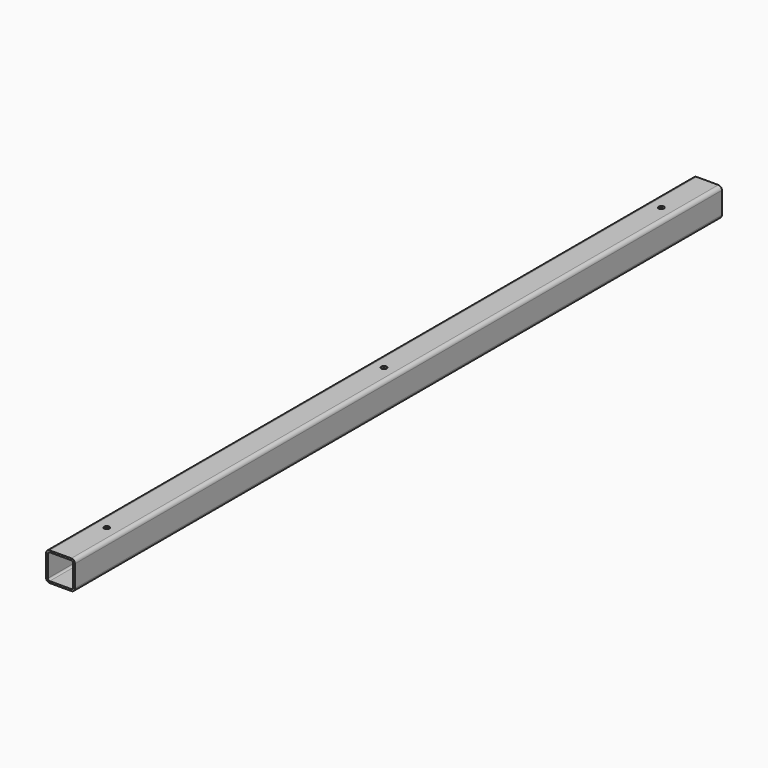
from build123d import *

# Parameters (mm, degrees)
F1_DEPTH = 711.2
F2_R     = 4.7625
F3_DEPTH = 50.801


with BuildPart() as f1:
    # F0 (on Front) → F1 (new body, symmetric)
    with BuildSketch(Plane.XZ):
        with BuildLine():
            Line((-19.106904, -25.439542), (18.993096, -25.439542))
            ThreePointArc((18.993096, -25.439542), (23.483225, -23.57967), (25.343096, -19.089542))
            Line((25.343096, -19.089542), (25.343096, 19.010458))
            ThreePointArc((25.343096, 19.010458), (23.483225, 23.500586), (18.993096, 25.360458))
            Line((18.993096, 25.360458), (-19.106904, 25.360458))
            ThreePointArc((-19.106904, 25.360458), (-23.597032, 23.500586), (-25.456904, 19.010458))
            Line((-25.456904, 19.010458), (-25.456904, -19.089542))
            ThreePointArc((-25.456904, -19.089542), (-23.597032, -23.57967), (-19.106904, -25.439542))
        make_face()
        with BuildLine():
            Line((-19.106904, 22.185458), (18.993096, 22.185458))
            ThreePointArc((18.993096, 22.185458), (21.238161, 21.255522), (22.168096, 19.010458))
            Line((22.168096, 19.010458), (22.168096, -19.089542))
            ThreePointArc((22.168096, -19.089542), (21.238161, -21.334606), (18.993096, -22.264542))
            Line((18.993096, -22.264542), (-19.106904, -22.264542))
            ThreePointArc((-19.106904, -22.264542), (-21.351968, -21.334606), (-22.281904, -19.089542))
            Line((-22.281904, -19.089542), (-22.281904, 19.010458))
            ThreePointArc((-22.281904, 19.010458), (-21.351968, 21.255522), (-19.106904, 22.185458))
        make_face(mode=Mode.SUBTRACT)
    extrude(amount=F1_DEPTH, both=True)

    # F2 (on face) → F3 (cut, through all)
    with BuildSketch(Plane.XY.offset(25.360458)):
        with Locations((-0.056904, -609.6)):
            Circle(F2_R)
        with Locations((-0.056904, 0)):
            Circle(F2_R)
        with Locations((-0.056904, 609.6)):
            Circle(F2_R)
    extrude(amount=-F3_DEPTH, mode=Mode.SUBTRACT)


solid = f1.part
